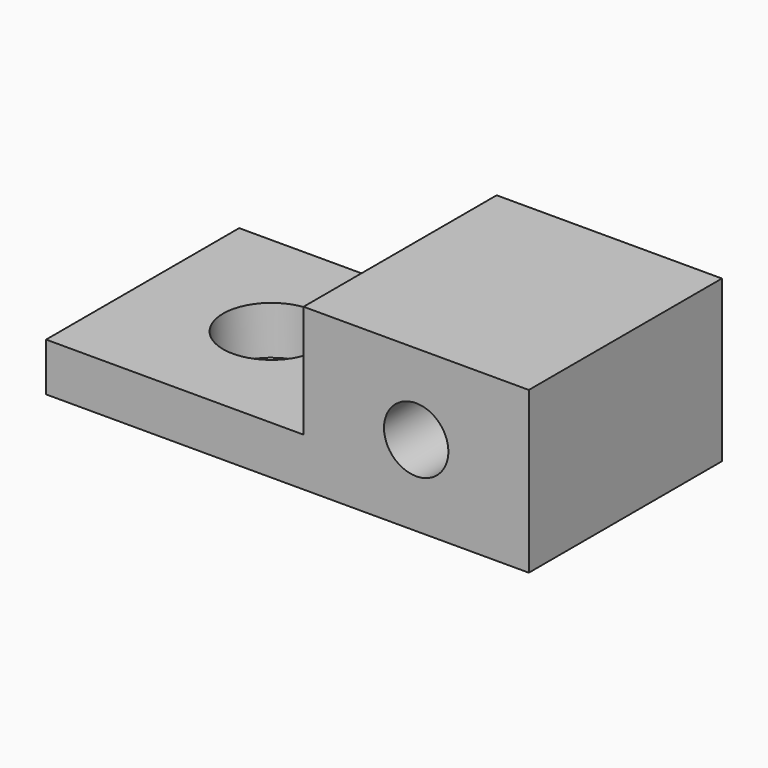
from build123d import *

# Parameters (mm, degrees)
F0_W     = 30
F0_H     = 15
F1_DEPTH = 10
F2_D     = 6
F4_D     = 4
F4_DEPTH = 8
F4_TIP   = 1.2017212381
F5_W     = 16
F5_H     = 7
F6_DEPTH = 7.5


with BuildPart() as f1:
    # F0 (on Top) → F1 (new body)
    with BuildSketch(Plane.XY):
        Rectangle(F0_W, F0_H)
    extrude(amount=F1_DEPTH)

    # F2 (through all)
    with Locations(Plane(origin=(0, 0, 0), x_dir=(1, 0, 0), z_dir=(0, 0, -1))):
        with Locations((-7, 0)):
            Hole(F2_D / 2)

    # F4
    with Locations(Plane.XZ.offset(7.5)):
        with Locations((8, 5)):
            Hole(F4_D / 2, depth=F4_DEPTH)
            with Locations((0, 0, -(F4_DEPTH + F4_TIP / 2))):  # 118° drill point
                Cone(0, F4_D / 2, F4_TIP, mode=Mode.SUBTRACT)

    # F5 (on Front) → F6 (cut, symmetric)
    with BuildSketch(Plane.XZ):
        with Locations((-7, 6.5)):
            Rectangle(F5_W, F5_H)
    extrude(amount=F6_DEPTH, both=True, mode=Mode.SUBTRACT)


solid = f1.part
